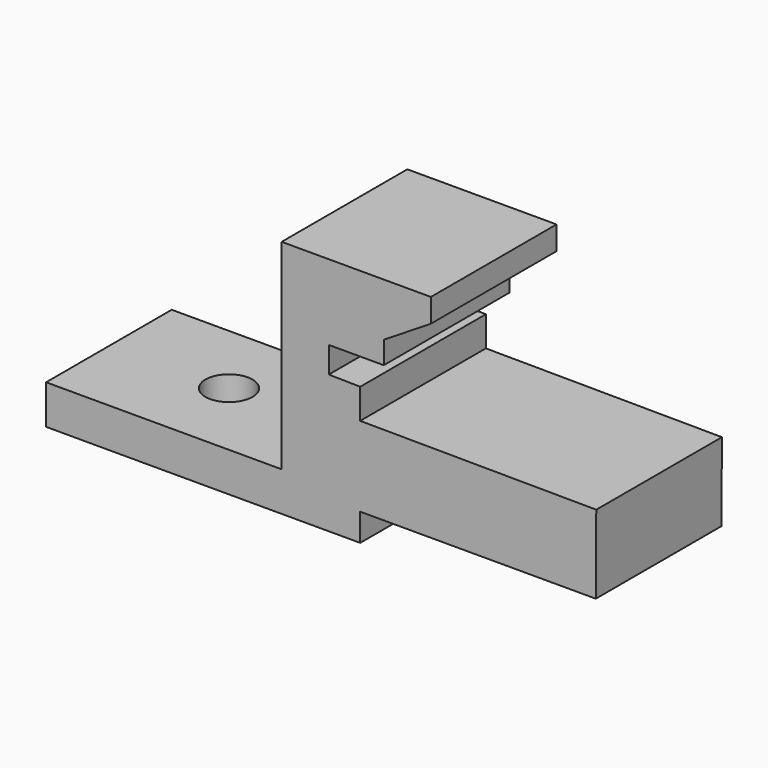
from build123d import *

# Parameters (mm, degrees)
F1_DEPTH = 10
F2_R     = 1.5
F3_DEPTH = 25


with BuildPart() as f1:
    # F0 (on Front) → F1 (new body)
    with BuildSketch(Plane.XZ):
        Polygon((1.252387, -0.073793), (16.252387, -0.073793), (16.282416, 4.926117), (1.252387, 5.016386), (1.252387, 6.929329), (-0.747613, 6.961697), (-0.720718, 8.623478), (2.752387, 8.623478), (2.752387, 10.051207), (5.752387, 11.926207), (5.752387, 13.426207), (-3.747613, 13.426207), (-3.747613, 0.676207), (-18.747613, 0.676207), (-18.747613, -1.823793), (1.252387, -1.823793), align=None)
    extrude(amount=F1_DEPTH)

    # F2 (on face) → F3 (cut)
    with BuildSketch(Plane.XY.offset(0.676207)):
        with Locations((-11.247613, -4.819462)):
            Circle(F2_R)
    extrude(amount=-F3_DEPTH, mode=Mode.SUBTRACT)


solid = f1.part
